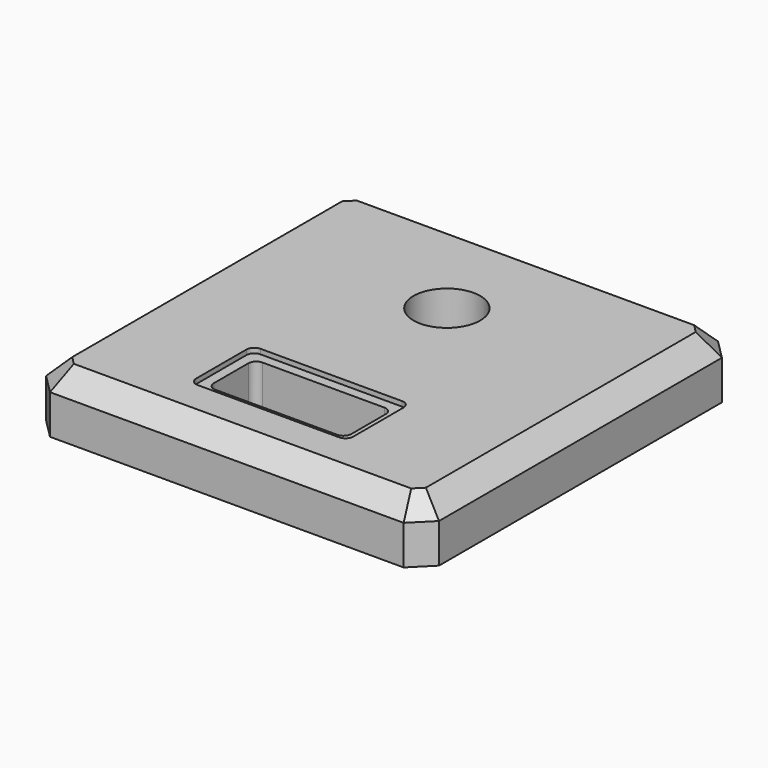
from build123d import *

# Parameters (mm, degrees)
F0_W     = 254
F0_H     = 254
F1_DEPTH = 38.1
F2_SIZE  = 12.7
F3_R     = 21.5591889527
F4_DEPTH = 38.1
F5_W     = 101.6
F5_H     = 50.8
F6_DEPTH = 3.175
F7_W     = 88.9000004845
F7_H     = 38.1000004845
F8_DEPTH = 38.101
F9_R     = 5.08
F10_SIZE = 12.7


with BuildPart() as f1:
    # F0 (on Top) → F1 (new body)
    with BuildSketch(Plane.XY):
        Rectangle(F0_W, F0_H)
    extrude(amount=F1_DEPTH)

    # F2
    f2_edges = [f1.edges().sort_by_distance(p)[0] for p in [
        (-127, -127, 19.05),
        (127, -127, 19.05),
        (-127, 127, 19.05),
        (127, 127, 19.05),
    ]]
    chamfer(f2_edges, length=F2_SIZE)

    # F3 (on face) → F4 (cut, through all)
    with BuildSketch(Plane.XY.offset(38.1)):
        with Locations((0, 50.8)):
            Circle(F3_R)
    extrude(amount=-F4_DEPTH, mode=Mode.SUBTRACT)

    # F5 (on face) → F6 (cut)
    with BuildSketch(Plane.XY.offset(38.1)):
        with Locations((0, -68.0069606819)):
            Rectangle(F5_W, F5_H)
    extrude(amount=-F6_DEPTH, mode=Mode.SUBTRACT)

    # F7 (on face) → F8 (cut, through all)
    with BuildSketch(Plane.XY.offset(38.1)):
        with Locations((0, -68.0069606819)):
            Rectangle(F7_W, F7_H)
    extrude(amount=-F8_DEPTH, mode=Mode.SUBTRACT)

    # F9
    f9_edges = [f1.edges().sort_by_distance(p)[0] for p in [
        (-50.8, -42.606961, 36.5125),
        (-44.45, -48.95696, 17.4625),
        (44.45, -48.95696, 17.4625),
        (50.8, -42.606961, 36.5125),
        (50.8, -93.406961, 36.5125),
        (44.45, -87.056961, 17.4625),
        (-44.45, -87.056961, 17.4625),
        (-50.8, -93.406961, 36.5125),
    ]]
    fillet(f9_edges, radius=F9_R)

    # F10
    f10_edges = [f1.edges().sort_by_distance(p)[0] for p in [
        (0, -127, 38.1),
        (-120.65, -120.65, 38.1),
        (-127, 0, 38.1),
        (-120.65, 120.65, 38.1),
        (0, 127, 38.1),
        (120.65, 120.65, 38.1),
        (120.65, -120.65, 38.1),
        (127, 0, 38.1),
    ]]
    chamfer(f10_edges, length=F10_SIZE)


solid = f1.part
